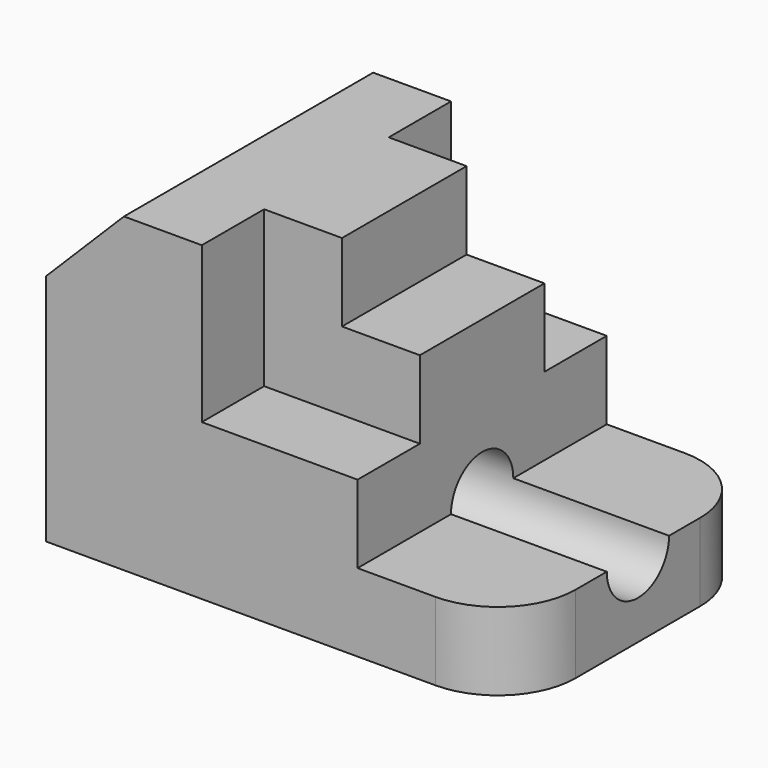
from build123d import *

# Parameters (mm, degrees)
F0_W     = 12.7
F0_H     = 12.7
F1_DEPTH = 50.8
F2_W     = 12.7
F2_H     = 12.7
F3_DEPTH = 25.4
F2_H_2   = 25.4
F4_DEPTH = 12.7
F6_DEPTH = 12.7
F7_R     = 6.35
F8_DEPTH = 76.2


with BuildPart() as f1:
    # F0 (on Front) → F1 (new body)
    with BuildSketch(Plane.XZ):
        Polygon((0, 38.1), (0, 0), (76.2, 0), (76.2, 12.7), (50.8, 12.7), (50.8, 25.4), (25.4, 25.4), (25.4, 50.8), (12.7, 50.8), align=None)
        Polygon((38.1, 50.8), (25.4, 50.8), (25.4, 25.4), (50.8, 25.4), (50.8, 38.1), (38.1, 38.1), align=None)
        with Locations((44.45, 44.45)):
            Rectangle(F0_W, F0_H)
    extrude(amount=F1_DEPTH)

    # F2 (on face) → F3 (cut)
    with BuildSketch(Plane.XY.offset(50.8)):
        with Locations((44.45, -44.45)):
            Rectangle(F2_W, F2_H)
        with Locations((44.45, -6.35)):
            Rectangle(F2_W, F2_H)
        with Locations((31.75, -44.45)):
            Rectangle(F2_W, F2_H)
        with Locations((31.75, -6.35)):
            Rectangle(F2_W, F2_H)
    extrude(amount=-F3_DEPTH, mode=Mode.SUBTRACT)

    # F2 (on face) → F4 (cut)
    with BuildSketch(Plane.XY.offset(50.8)):
        with Locations((44.45, -25.4)):
            Rectangle(F2_W, F2_H_2)
    extrude(amount=-F4_DEPTH, mode=Mode.SUBTRACT)

    # F5 (on face) → F6 (cut)
    with BuildSketch(Plane.XY.offset(12.7)):
        with BuildLine():
            ThreePointArc((63.5, 0), (72.4802561211, -3.7197438789), (76.2, -12.7))
            Line((76.2, -12.7), (76.2, 0))
            Line((76.2, 0), (63.5, 0))
        make_face()
        with BuildLine():
            ThreePointArc((76.2, -38.1), (72.4802561211, -47.0802561211), (63.5, -50.8))
            Line((63.5, -50.8), (76.2, -50.8))
            Line((76.2, -50.8), (76.2, -38.1))
        make_face()
    extrude(amount=-F6_DEPTH, mode=Mode.SUBTRACT)

    # F7 (on face) → F8 (cut)
    with BuildSketch(Plane.YZ.offset(76.2)):
        with Locations((-25.4, 12.7)):
            Circle(F7_R)
    extrude(amount=-F8_DEPTH, mode=Mode.SUBTRACT)


solid = f1.part
